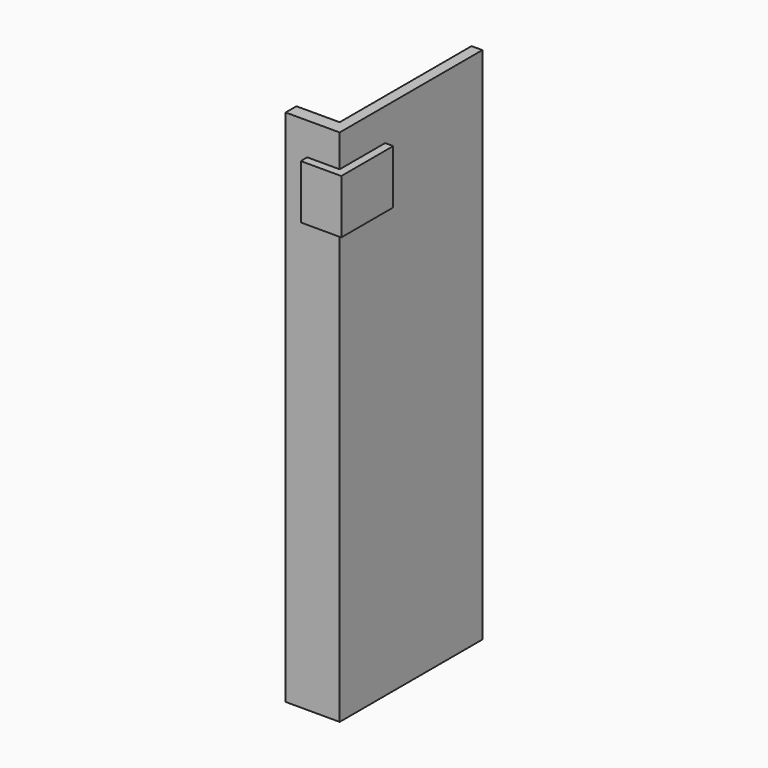
from build123d import *

# Parameters (mm, degrees)
F0_W     = 838.2
F0_H     = 2438.4
F1_DEPTH = 50.8
F2_W     = 63.5
F2_H     = 2438.4
F3_DEPTH = 203.2
F4_W     = 152.4
F4_H     = 254
F5_DEPTH = 38.1
F6_W     = 304.8
F6_H     = 254
F7_DEPTH = 38.1


with BuildPart() as f1:
    # F0 (on Right) → F1 (new body)
    with BuildSketch(Plane.YZ):
        Rectangle(F0_W, F0_H)
    extrude(amount=F1_DEPTH)

    # F2 (on face) → F3 (join)
    with BuildSketch(Plane(origin=(0, 0, 0), x_dir=(0, -1, 0), z_dir=(-1, 0, 0))):
        with Locations((387.35, 0)):
            Rectangle(F2_W, F2_H)
    extrude(amount=F3_DEPTH)

    # F4 (on face) → F5 (join)
    with BuildSketch(Plane.XZ.offset(419.1)):
        with Locations((-25.4, 939.8)):
            Rectangle(F4_W, F4_H)
    extrude(amount=F5_DEPTH)

    # F6 (on face) → F7 (join)
    with BuildSketch(Plane.YZ.offset(50.8)):
        with Locations((-304.8, 939.8)):
            Rectangle(F6_W, F6_H)
    extrude(amount=F7_DEPTH)


solid = f1.part
